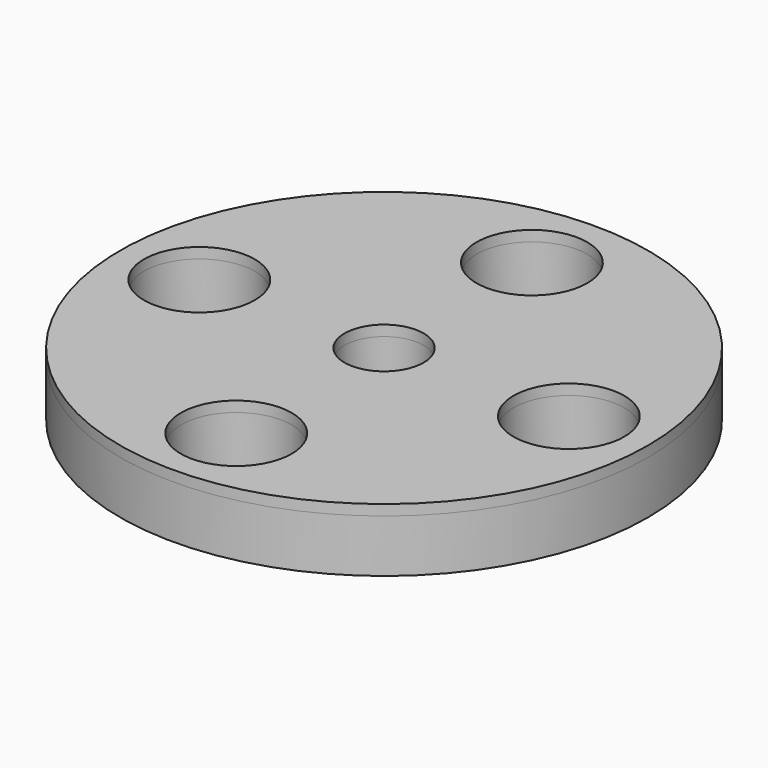
from build123d import *

# Parameters (mm, degrees)
F0_R     = 50
F0_R_2   = 10.5
F0_R_3   = 7.5
F1_DEPTH = 10
F2_DEPTH = 2


with BuildPart() as f1:
    # F0 (on Top) → F1 (new body)
    with BuildSketch(Plane.XY):
        Circle(F0_R)
        with Locations((0, -35)):
            Circle(F0_R_2, mode=Mode.SUBTRACT)
        with Locations((-35, 0)):
            Circle(F0_R_2, mode=Mode.SUBTRACT)
        Circle(F0_R_3, mode=Mode.SUBTRACT)
        with Locations((35, 0)):
            Circle(F0_R_2, mode=Mode.SUBTRACT)
        with Locations((0, 35)):
            Circle(F0_R_2, mode=Mode.SUBTRACT)
    extrude(amount=-F1_DEPTH)

    # F0 (on Top) → F2 (join)
    with BuildSketch(Plane.XY):
        Circle(F0_R)
        with Locations((0, -35)):
            Circle(F0_R_2, mode=Mode.SUBTRACT)
        with Locations((-35, 0)):
            Circle(F0_R_2, mode=Mode.SUBTRACT)
        Circle(F0_R_3, mode=Mode.SUBTRACT)
        with Locations((35, 0)):
            Circle(F0_R_2, mode=Mode.SUBTRACT)
        with Locations((0, 35)):
            Circle(F0_R_2, mode=Mode.SUBTRACT)
    extrude(amount=F2_DEPTH)


solid = f1.part
